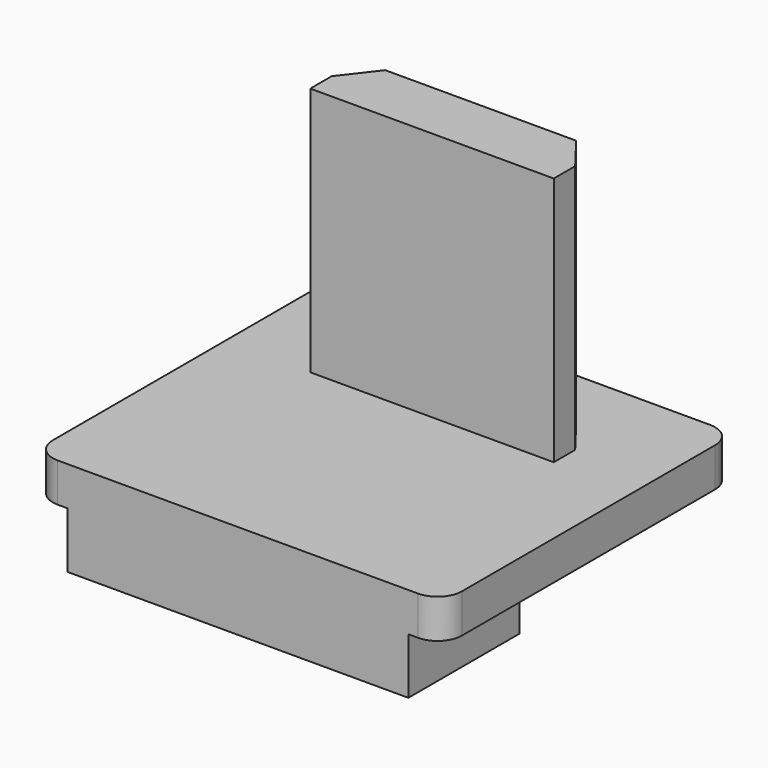
from build123d import *

# Parameters (mm, degrees)
SKETCH_W     = 16.8
SKETCH_H     = 15
PAD_DEPTH    = 1.6
FILLET_R     = 1
SKETCH001_W  = 10
SKETCH001_H  = 2.5
PAD001_DEPTH = 10.26
POCKET_DEPTH = 10.26
SKETCH003_W  = 14
SKETCH003_H  = 5.7
PAD002_DEPTH = 2.3


with BuildPart() as part:
    # Sketch → Pad (new body)
    with BuildSketch(Plane.XY):
        Rectangle(SKETCH_W, SKETCH_H)
    extrude(amount=PAD_DEPTH)

    # Fillet
    fillet_edges = [part.edges().sort_by_distance(p)[0] for p in [
        (8.4, 7.5, 0.8),
        (8.4, -7.5, 0.8),
        (-8.4, -7.5, 0.8),
        (-8.4, 7.5, 0.8),
    ]]
    fillet(fillet_edges, radius=FILLET_R)

    # Sketch001 (on Face5 of Fillet) → Pad001 (join)
    with BuildSketch(Plane.XY.offset(1.6)):
        with Locations((0.1, 3.59)):
            Rectangle(SKETCH001_W, SKETCH001_H)
    extrude(amount=PAD001_DEPTH)

    # Sketch002 (on Face15 of Pad001) → Pocket (cut)
    with BuildSketch(Plane.XY.offset(11.86)):
        Polygon((-4.9, 3.44), (-4.9, 4.84), (-3.82, 4.84), align=None)
        Polygon((5.1, 4.84), (4.02, 4.84), (5.1, 3.44), align=None)
    extrude(amount=-POCKET_DEPTH, mode=Mode.SUBTRACT)

    # Sketch003 (on Face2 of Pocket) → Pad002 (join)
    with BuildSketch(Plane(origin=(0, 0, 0), x_dir=(1, 0, 0), z_dir=(0, 0, -1))):
        with Locations((0, 4.65)):
            Rectangle(SKETCH003_W, SKETCH003_H)
    extrude(amount=PAD002_DEPTH)


solid = part.part
